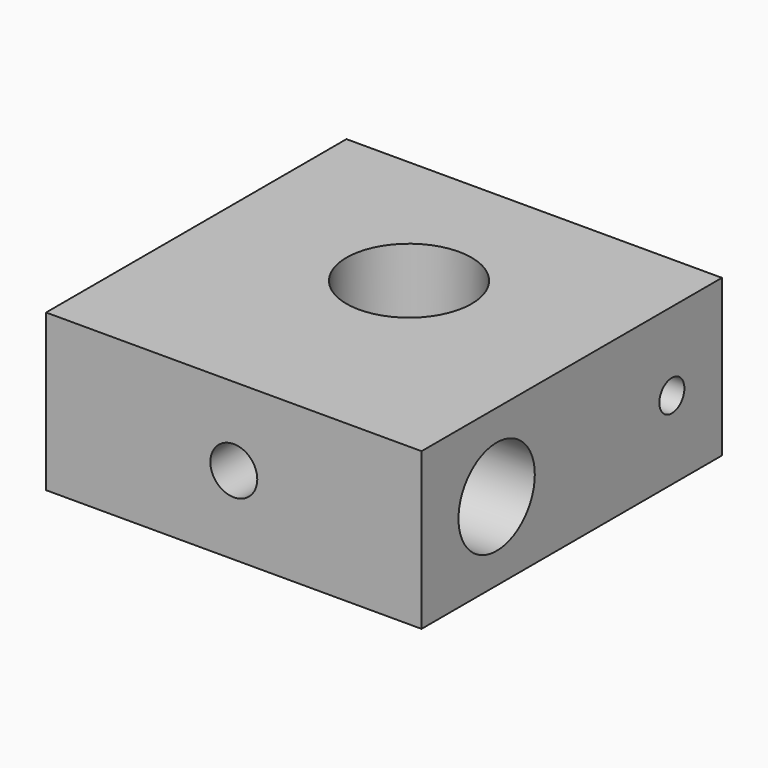
from build123d import *

# Parameters (mm, degrees)
SKETCH_W        = 24
SKETCH_H        = 24
SKETCH_R        = 4
PAD_DEPTH       = 10
SKETCH002_R     = 3.05
POCKET_DEPTH    = 24.001
SKETCH003_R     = 1
POCKET001_DEPTH = 10
SKETCH004_R     = 1.5
POCKET002_DEPTH = 7
SKETCH005_R     = 1.5
POCKET003_DEPTH = 5


with BuildPart() as part:
    # Sketch → Pad (new body)
    with BuildSketch(Plane.XY):
        with Locations((0, -2)):
            Rectangle(SKETCH_W, SKETCH_H)
        Circle(SKETCH_R, mode=Mode.SUBTRACT)
    extrude(amount=PAD_DEPTH)

    # Sketch002 → Pocket (cut, through all)
    with BuildSketch(Plane.YZ.offset(12)):
        with Locations((-8, 5)):
            Circle(SKETCH002_R)
    extrude(amount=-POCKET_DEPTH, mode=Mode.SUBTRACT)

    # Sketch003 (on Face3 of Pocket) → Pocket001 (cut)
    with BuildSketch(Plane.YZ.offset(12)):
        with Locations((6, 5)):
            Circle(SKETCH003_R)
    extrude(amount=-POCKET001_DEPTH, mode=Mode.SUBTRACT)

    # Sketch004 (on Face4 of Pocket001) → Pocket002 (cut)
    with BuildSketch(Plane(origin=(0, 0, 0), x_dir=(1, 0, 0), z_dir=(0, 0, -1))):
        with Locations((8, -0.003153)):
            Circle(SKETCH004_R)
        with Locations((-8, -0.04227)):
            Circle(SKETCH004_R)
    extrude(amount=-POCKET002_DEPTH, mode=Mode.SUBTRACT)

    # Sketch005 (on Face6 of Pocket002) → Pocket003 (cut)
    with BuildSketch(Plane.XZ.offset(14)):
        with Locations((0, 5)):
            Circle(SKETCH005_R)
    extrude(amount=-POCKET003_DEPTH, mode=Mode.SUBTRACT)


solid = part.part
